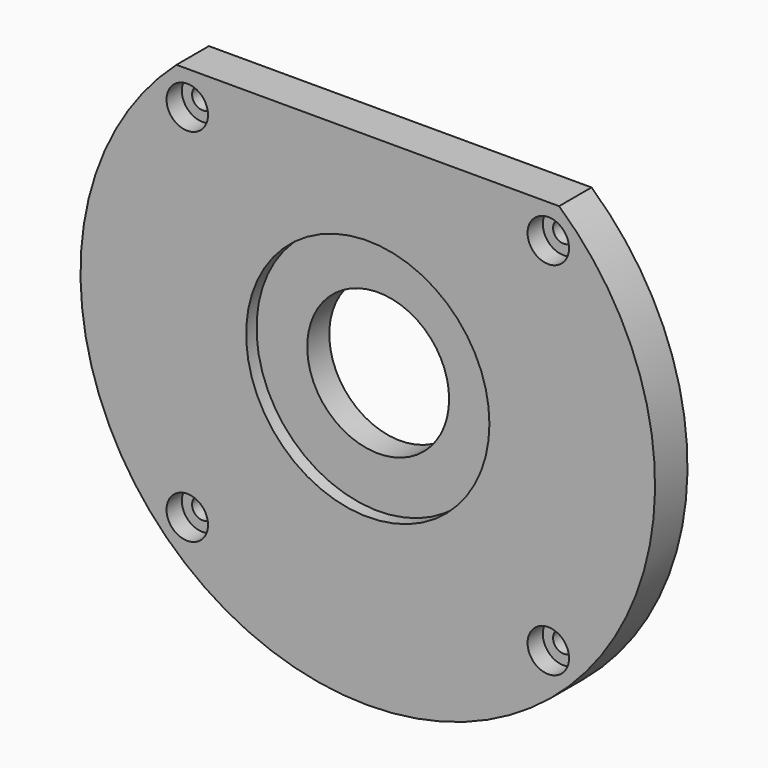
from build123d import *

# Parameters (mm, degrees)
F0_R           = 44.9961
F0_R_2         = 11.1125
F1_DEPTH       = 6.35
F2_R           = 19.05
F3_DEPTH       = 2.032
F5_D           = 3.3
F5_CBORE_D     = 6.5
F5_CBORE_DEPTH = 3
F7_DEPTH       = 25.4


with BuildPart() as f1:
    # F0 (on Front) → F1 (new body)
    with BuildSketch(Plane.XZ):
        Circle(F0_R)
        Circle(F0_R_2, mode=Mode.SUBTRACT)
    extrude(amount=F1_DEPTH)

    # F2 (on face) → F3 (cut)
    with BuildSketch(Plane.XZ.offset(6.35)):
        Circle(F2_R)
    extrude(amount=-F3_DEPTH, mode=Mode.SUBTRACT)

    # F5 (through all)
    with Locations(Plane.XZ.offset(6.35)):
        with Locations((-28.2702, 28.2702), (28.2702, 28.2702), (28.2702, -28.2702), (-28.2702, -28.2702)):
            CounterBoreHole(F5_D / 2, F5_CBORE_D / 2, F5_CBORE_DEPTH)

    # F6 (on face) → F7 (cut)
    with BuildSketch(Plane.XZ.offset(6.35)):
        with BuildLine():
            ThreePointArc((29.9660799238, 33.5661), (0, 44.9961), (-29.9660799238, 33.5661))
            Line((-29.9660799238, 33.5661), (29.9660799238, 33.5661))
        make_face()
    extrude(amount=-F7_DEPTH, mode=Mode.SUBTRACT)


solid = f1.part
